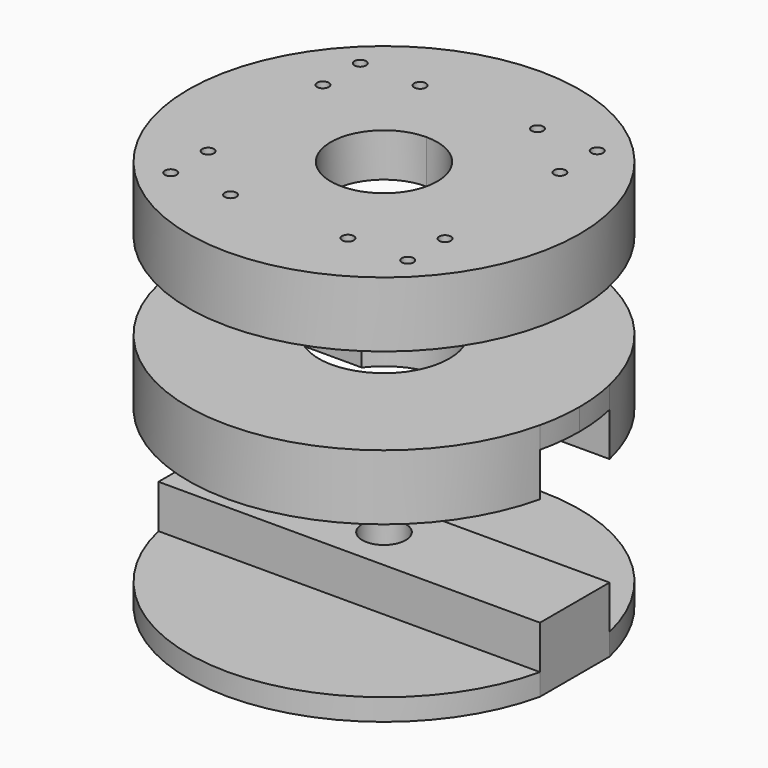
from build123d import *

# Parameters (mm, degrees)
F1_R           = 45
F2_DEPTH       = 10
F2_DEPTH_BACK  = 5
F0_R           = 1.35
F3_DEPTH       = 5
F4_DEPTH       = 5.001
F4_DEPTH_BACK  = 10.001
F6_R           = 15
F7_DEPTH       = 2
F8_DEPTH       = 5
F9_DEPTH       = 15
F11_W          = 87.7496438739
F11_H          = 20
F11_R          = 5
F12_DEPTH      = 10
F12_DEPTH_BACK = 5
F13_DEPTH      = 5


with BuildPart() as f2:
    # F1 (on Top) → F2 (new body, two sides)
    with BuildSketch(Plane.XY) as f2_sk:
        Circle(F1_R)
    extrude(amount=F2_DEPTH)
    extrude(f2_sk.sketch, amount=-F2_DEPTH_BACK)

    # F0 (on Top) → F3 (cut, through all)
    with BuildSketch(Plane.XY):
        Polygon((24.5, 24.5), (24.5, 9.75), (30, 9.75), (30, 30), (0, 30), (0, 24.5), align=None)
        with Locations((13.5, 27.25)):
            Circle(F0_R, mode=Mode.SUBTRACT)
        with Locations((27.25, 16.5)):
            Circle(F0_R, mode=Mode.SUBTRACT)
        with Locations((27.25, 27.25)):
            Circle(F0_R, mode=Mode.SUBTRACT)
        with BuildLine():
            ThreePointArc((0, 12.25), (8.6620580695, 8.6620580695), (12.25, 0))
            Line((12.25, 0), (24.5, 0))
            Line((24.5, 0), (24.5, 9.75))
            Line((24.5, 9.75), (24.5, 24.5))
            Line((24.5, 24.5), (0, 24.5))
            Line((0, 24.5), (0, 12.25))
        make_face()
        with BuildLine():
            Line((24.5, 0), (12.25, 0))
            ThreePointArc((12.25, 0), (-8.6620580695, -8.6620580695), (0, 12.25))
            Line((0, 12.25), (0, 24.5))
            Line((0, 24.5), (-24.5, 24.5))
            Line((-24.5, 24.5), (-24.5, 9.75))
            Line((-24.5, 9.75), (-24.5, 0))
            Line((-24.5, 0), (-24.5, -9.75))
            Line((-24.5, -9.75), (-24.5, -24.5))
            Line((-24.5, -24.5), (0, -24.5))
            Line((0, -24.5), (24.5, -24.5))
            Line((24.5, -24.5), (24.5, -9.75))
            Line((24.5, -9.75), (24.5, 0))
        make_face()
        Polygon((30, -9.75), (24.5, -9.75), (24.5, -24.5), (0, -24.5), (0, -30), (30, -30), align=None)
        with Locations((13.5, -27.25)):
            Circle(F0_R, mode=Mode.SUBTRACT)
        with Locations((27.25, -27.25)):
            Circle(F0_R, mode=Mode.SUBTRACT)
        with Locations((27.25, -16.5)):
            Circle(F0_R, mode=Mode.SUBTRACT)
        Polygon((0, -30), (0, -24.5), (-24.5, -24.5), (-24.5, -9.75), (-30, -9.75), (-30, -30), align=None)
        with Locations((-27.25, -27.25)):
            Circle(F0_R, mode=Mode.SUBTRACT)
        with Locations((-27.25, -16.5)):
            Circle(F0_R, mode=Mode.SUBTRACT)
        with Locations((-13.5, -27.25)):
            Circle(F0_R, mode=Mode.SUBTRACT)
        Polygon((-24.5, 24.5), (0, 24.5), (0, 30), (-30, 30), (-30, 9.75), (-24.5, 9.75), align=None)
        with Locations((-27.25, 16.5)):
            Circle(F0_R, mode=Mode.SUBTRACT)
        with Locations((-27.25, 27.25)):
            Circle(F0_R, mode=Mode.SUBTRACT)
        with Locations((-13.5, 27.25)):
            Circle(F0_R, mode=Mode.SUBTRACT)
    extrude(amount=-F3_DEPTH, mode=Mode.SUBTRACT)

    # F0 (on Top) → F4 (cut, two sides)
    with BuildSketch(Plane.XY) as f4_sk:
        with Locations((27.25, -27.25)):
            Circle(F0_R)
        with Locations((27.25, -16.5)):
            Circle(F0_R)
        with BuildLine():
            ThreePointArc((0, 12.25), (-8.6620580695, -8.6620580695), (12.25, 0))
            ThreePointArc((12.25, 0), (8.6620580695, 8.6620580695), (0, 12.25))
        make_face()
        with Locations((27.25, 16.5)):
            Circle(F0_R)
        with Locations((27.25, 27.25)):
            Circle(F0_R)
        with Locations((13.5, -27.25)):
            Circle(F0_R)
        with Locations((13.5, 27.25)):
            Circle(F0_R)
        with Locations((-27.25, -16.5)):
            Circle(F0_R)
        with Locations((-27.25, -27.25)):
            Circle(F0_R)
        with Locations((-13.5, -27.25)):
            Circle(F0_R)
        with Locations((-27.25, 16.5)):
            Circle(F0_R)
        with Locations((-27.25, 27.25)):
            Circle(F0_R)
        with Locations((-13.5, 27.25)):
            Circle(F0_R)
    extrude(amount=-F4_DEPTH, mode=Mode.SUBTRACT)
    extrude(f4_sk.sketch, amount=F4_DEPTH_BACK, mode=Mode.SUBTRACT)


with BuildPart() as f7:
    # F6 (on offset) → F7 (new body)
    with BuildSketch(Plane.XY.offset(-25)):
        with BuildLine():
            ThreePointArc((13.1244047484, -10), (15.6333406275, -5.2771830389), (16.5, 0))
            ThreePointArc((16.5, 0), (15.6333406275, 5.2771830389), (13.1244047484, 10))
            ThreePointArc((13.1244047484, 10), (0, 16.5), (-13.1244047484, 10))
            ThreePointArc((-13.1244047484, 10), (-16.5, 0), (-13.1244047484, -10))
            ThreePointArc((-13.1244047484, -10), (0, -16.5), (13.1244047484, -10))
        make_face()
        Circle(F6_R, mode=Mode.SUBTRACT)
    extrude(amount=-F7_DEPTH)

    # F6 (on offset) → F8 (join)
    with BuildSketch(Plane.XY.offset(-25)):
        with BuildLine():
            ThreePointArc((13.1244047484, 10), (15.6333406275, 5.2771830389), (16.5, 0))
            ThreePointArc((16.5, 0), (15.6333406275, -5.2771830389), (13.1244047484, -10))
            Line((13.1244047484, -10), (43.874821937, -10))
            ThreePointArc((43.874821937, -10), (44.7178207606, -5.0315510947), (45, 0))
            ThreePointArc((45, 0), (44.7178207606, 5.0315510947), (43.874821937, 10))
            Line((43.874821937, 10), (13.1244047484, 10))
        make_face()
        with BuildLine():
            ThreePointArc((-13.1244047484, -10), (-16.5, 0), (-13.1244047484, 10))
            Line((-13.1244047484, 10), (-43.874821937, 10))
            ThreePointArc((-43.874821937, 10), (-45, 0), (-43.874821937, -10))
            Line((-43.874821937, -10), (-13.1244047484, -10))
        make_face()
    extrude(amount=-F8_DEPTH)

    # F6 (on offset) → F9 (join)
    with BuildSketch(Plane.XY.offset(-25)):
        with BuildLine():
            ThreePointArc((-13.1244047484, 10), (0, 16.5), (13.1244047484, 10))
            Line((13.1244047484, 10), (43.874821937, 10))
            ThreePointArc((43.874821937, 10), (0, 45), (-43.874821937, 10))
            Line((-43.874821937, 10), (-13.1244047484, 10))
        make_face()
        with BuildLine():
            Line((43.874821937, -10), (13.1244047484, -10))
            ThreePointArc((13.1244047484, -10), (0, -16.5), (-13.1244047484, -10))
            Line((-13.1244047484, -10), (-43.874821937, -10))
            ThreePointArc((-43.874821937, -10), (0, -45), (43.874821937, -10))
        make_face()
    extrude(amount=-F9_DEPTH)


with BuildPart() as f12:
    # F11 (on offset) → F12 (new body, two sides)
    with BuildSketch(Plane.XY.offset(-75)) as f12_sk:
        Rectangle(F11_W, F11_H)
        Circle(F11_R, mode=Mode.SUBTRACT)
    extrude(amount=F12_DEPTH)
    extrude(f12_sk.sketch, amount=-F12_DEPTH_BACK)

    # F11 (on offset) → F13 (join)
    with BuildSketch(Plane.XY.offset(-75)):
        with BuildLine():
            Line((-43.874821937, 10), (43.874821937, 10))
            ThreePointArc((43.874821937, 10), (0, 45), (-43.874821937, 10))
        make_face()
        with BuildLine():
            ThreePointArc((-43.874821937, -10), (0, -45), (43.874821937, -10))
            Line((43.874821937, -10), (-43.874821937, -10))
        make_face()
    extrude(amount=-F13_DEPTH)


solid = Compound([f2.part, f7.part, f12.part])
